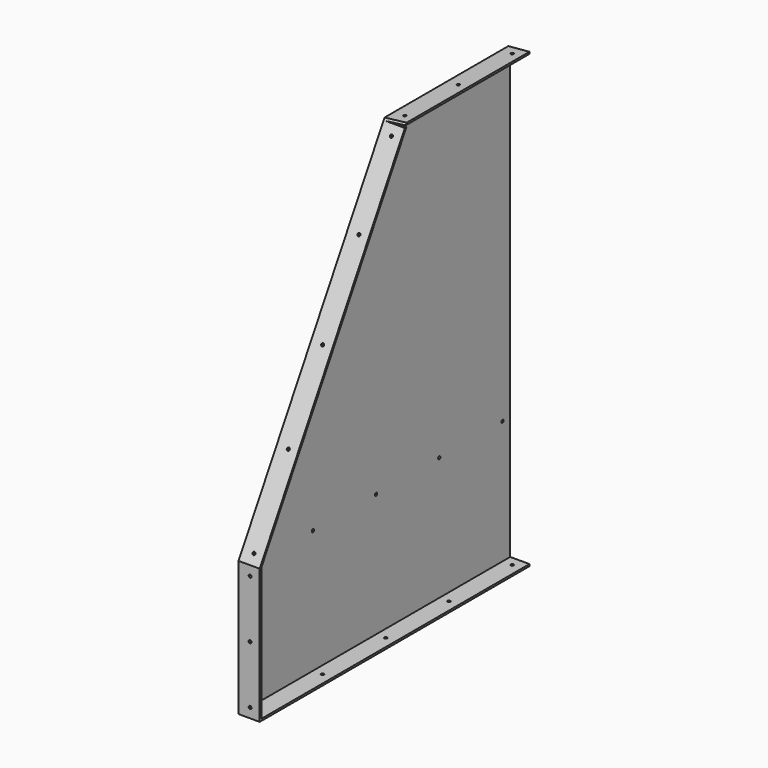
from build123d import *

# Parameters (mm, degrees)
PAD015_DEPTH         = 350
POCKET024_DEPTH      = 2.001
POCKET024_DEPTH_BACK = 20.001
PAD016_DEPTH         = 20
SKETCH051_R          = 1.5
POCKET029_DEPTH      = 5
SKETCH052_R          = 1.5
POCKET030_DEPTH      = 5
SKETCH053_R          = 1.5
POCKET031_DEPTH      = 5
SKETCH054_R          = 1.5
POCKET032_DEPTH      = 5
SKETCH055_R          = 1.5
POCKET033_DEPTH      = 5
SKETCH065_R          = 1.5
POCKET041_DEPTH      = 24.001


with BuildPart() as part:
    # Sketch044 (on Face1 of Binder013) → Pad015 (new body)
    with BuildSketch(Plane(origin=(0, -0.1, 0), x_dir=(-1, 0, 0), z_dir=(0, 1, 0))):
        Polygon((100, -343.2), (100, -341.2), (120, -341.2), (120, 122.9396985174), (100, 124.9073888451), (100, 126.9073888451), (122, 124.9396985174), (122, -343.2), align=None)
    extrude(amount=PAD015_DEPTH)

    # Sketch045 (on Face3 of Pad015) → Pocket024 (cut, two sides)
    with BuildSketch(Plane.YZ.offset(-120)) as pocket024_sk:
        Polygon((-0.1, -203.2), (190.4875899006, 126.907389), (-0.1, 126.907389), align=None)
    extrude(amount=-POCKET024_DEPTH, mode=Mode.SUBTRACT)
    extrude(pocket024_sk.sketch, amount=POCKET024_DEPTH_BACK, mode=Mode.SUBTRACT)

    # Sketch046 (on Face7 of Pocket024) → Pad016 (join)
    with BuildSketch(Plane.YZ.offset(-120)):
        Polygon((188.1968427325, 122.9396985174), (190.1968427325, 122.9396985174), (1.9, -203.2), (1.9, -341.2), (-0.1, -341.2), (-0.1, -203.2), align=None)
    extrude(amount=PAD016_DEPTH)

    # Sketch051 (on Face14 of Pad016) → Pocket029 (cut)
    with BuildSketch(Plane(origin=(0, 87.9131810245, -50.7566987298), x_dir=(1, 0, 0), z_dir=(0, -0.8660254038, 0.5))):
        with Locations((-110, 190.567323)):
            Circle(SKETCH051_R)
        with Locations((-110, 106.418902)):
            Circle(SKETCH051_R)
        with Locations((-110, 12.270481)):
            Circle(SKETCH051_R)
        with Locations((-110, -76.877941)):
            Circle(SKETCH051_R)
        with Locations((-110, -166.026362)):
            Circle(SKETCH051_R)
    extrude(amount=-POCKET029_DEPTH, mode=Mode.SUBTRACT)

    # Sketch052 (on Face14 of Pocket029) → Pocket030 (cut)
    with BuildSketch(Plane.XZ.offset(0.1)):
        with Locations((-110, -333.2)):
            Circle(SKETCH052_R)
        with Locations((-110, -273.2)):
            Circle(SKETCH052_R)
        with Locations((-110, -213.2)):
            Circle(SKETCH052_R)
    extrude(amount=-POCKET030_DEPTH, mode=Mode.SUBTRACT)

    # Sketch053 (on Face1 of Pocket030) → Pocket031 (cut)
    with BuildSketch(Plane.XY.offset(-341.2)):
        with Locations((-110, 339.9)):
            Circle(SKETCH053_R)
        with Locations((-110, 175.9)):
            Circle(SKETCH053_R)
        with Locations((-110, 93.9)):
            Circle(SKETCH053_R)
        with Locations((-110, 11.9)):
            Circle(SKETCH053_R)
        with Locations((-110, 257.9)):
            Circle(SKETCH053_R)
    extrude(amount=-POCKET031_DEPTH, mode=Mode.SUBTRACT)

    # Sketch054 (on Face21 of Pocket031) → Pocket032 (cut)
    with BuildSketch(Plane(origin=(-12.0541875412, 0, 134.7733035964), x_dir=(0.9960240399, 0, 0.0890848577), z_dir=(-0.0890848577, 0, 0.9960240399))):
        with Locations((-98.296877, 200.48759)):
            Circle(SKETCH054_R)
        with Locations((-98.296877, 270.193795)):
            Circle(SKETCH054_R)
        with Locations((-98.296877, 339.9)):
            Circle(SKETCH054_R)
    extrude(amount=-POCKET032_DEPTH, mode=Mode.SUBTRACT)

    # Sketch055 (on Face21 of Pocket031) → Pocket033 (cut)
    with BuildSketch(Plane(origin=(-12.0541875412, 0, 134.7733035964), x_dir=(0.9960240399, 0, 0.0890848577), z_dir=(-0.0890848577, 0, 0.9960240399))):
        with Locations((-98.296877, 200.48759)):
            Circle(SKETCH055_R)
        with Locations((-98.296877, 339.9)):
            Circle(SKETCH055_R)
        with Locations((-98.296877, 270.193795)):
            Circle(SKETCH055_R)
    extrude(amount=-POCKET033_DEPTH, mode=Mode.SUBTRACT)

    # Sketch065 (on Face1 of Binder018) → Pocket041 (cut, through all)
    with BuildSketch(Plane(origin=(-124, 0, 0), x_dir=(0, -1, 0), z_dir=(-1, 0, 0))):
        with Locations((-339.9, -213.2)):
            Circle(SKETCH065_R)
        with Locations((-257.9, -213.2)):
            Circle(SKETCH065_R)
        with Locations((-175.9, -213.2)):
            Circle(SKETCH065_R)
        with Locations((-93.9, -213.2)):
            Circle(SKETCH065_R)
        with Locations((-11.9, -213.2)):
            Circle(SKETCH065_R)
    extrude(amount=-POCKET041_DEPTH, mode=Mode.SUBTRACT)


solid = part.part
